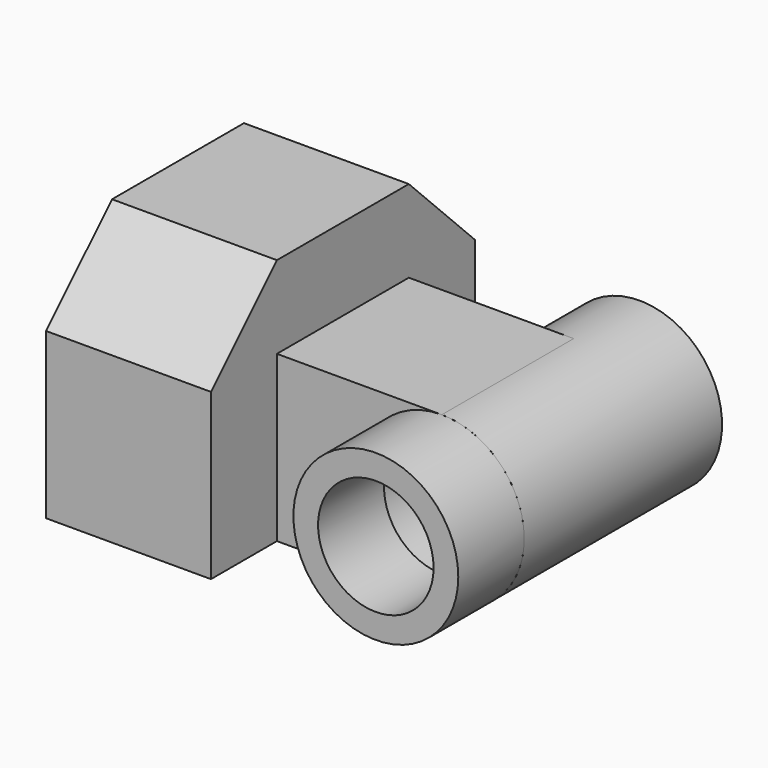
from build123d import *

# Parameters (mm, degrees)
F1_DEPTH = 12.7
F2_R     = 6.35
F2_R_2   = 4.448414
F3_DEPTH = 6.35
F4_R     = 6.35
F4_R_2   = 5.08
F5_DEPTH = 19.05
F7_DEPTH = 12.7


with BuildPart() as f1:
    # F0 (on Front) → F1 (new body)
    with BuildSketch(Plane.XZ):
        with BuildLine():
            Line((-12.7, 0), (0, 0))
            ThreePointArc((0, 0), (-6.35, 6.35), (0, 12.7))
            Line((0, 12.7), (-12.7, 12.7))
            Line((-12.7, 12.7), (-12.7, 0))
        make_face()
    extrude(amount=F1_DEPTH)

    # F6 (on face) → F7 (join)
    with BuildSketch(Plane(origin=(-12.7, 0, 0), x_dir=(0, -1, 0), z_dir=(-1, 0, 0))):
        Polygon((12.7, 19.05), (0, 19.05), (-6.35, 12.7), (-6.35, 0), (19.05, 0), (19.05, 12.7), align=None)
    extrude(amount=F7_DEPTH)


with BuildPart() as f3:
    # F2 (on face) → F3 (new body)
    with BuildSketch(Plane.XZ.offset(12.7)):
        with Locations((0, 6.35)):
            Circle(F2_R)
        with Locations((0, 6.35)):
            Circle(F2_R_2, mode=Mode.SUBTRACT)
    extrude(amount=F3_DEPTH)


with BuildPart() as f5:
    # F4 (on face) → F5 (new body)
    with BuildSketch(Plane(origin=(0, -12.7, 0), x_dir=(-1, 0, 0), z_dir=(0, 1, 0))):
        with Locations((0, 6.35)):
            Circle(F4_R)
        with Locations((0, 6.35)):
            Circle(F4_R_2, mode=Mode.SUBTRACT)
    extrude(amount=F5_DEPTH)


solid = Compound([f1.part, f3.part, f5.part])
